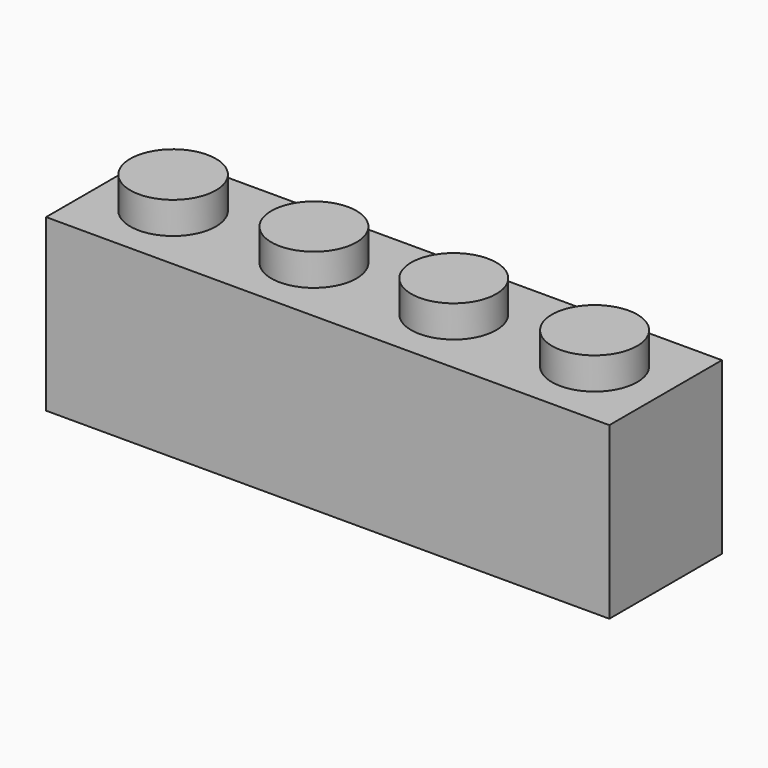
from build123d import *

# Parameters (mm, degrees)
F0_W     = 808.303834
F0_H     = 244.603918
F1_DEPTH = 201.93
F2_R     = 61.085102
F2_R_2   = 61.085249
F2_R_3   = 61.165723
F2_R_4   = 61.434425
F3_DEPTH = 45.72
F4_R     = 61.451385
F4_R_2   = 60.987438
F4_R_3   = 61.338193
F4_R_4   = 60.569848
F5_DEPTH = 45.72


with BuildPart() as f1:
    # F0 (on Front) → F1 (new body)
    with BuildSketch(Plane.XZ):
        Rectangle(F0_W, F0_H)
    extrude(amount=F1_DEPTH)

    # F2 (on face) → F3 (join)
    with BuildSketch(Plane.XY.offset(122.301959)):
        with Locations((-100.550018, -100.965)):
            Circle(F2_R)
        with Locations((100.115694, -100.965)):
            Circle(F2_R_2)
        with Locations((302.191652, -100.965)):
            Circle(F2_R_3)
        with Locations((-302.625977, -100.965)):
            Circle(F2_R_4)
    extrude(amount=F3_DEPTH)

    # F4 (on face) → F5 (cut)
    with BuildSketch(Plane(origin=(0, 0, -122.301959), x_dir=(1, 0, 0), z_dir=(0, 0, -1))):
        with Locations((303.214967, 100.965)):
            Circle(F4_R)
        with Locations((101.139009, 100.965)):
            Circle(F4_R_2)
        with Locations((-101.139016, 100.965)):
            Circle(F4_R_3)
        with Locations((-303.214975, 100.965)):
            Circle(F4_R_4)
    extrude(amount=-F5_DEPTH, mode=Mode.SUBTRACT)


solid = f1.part
